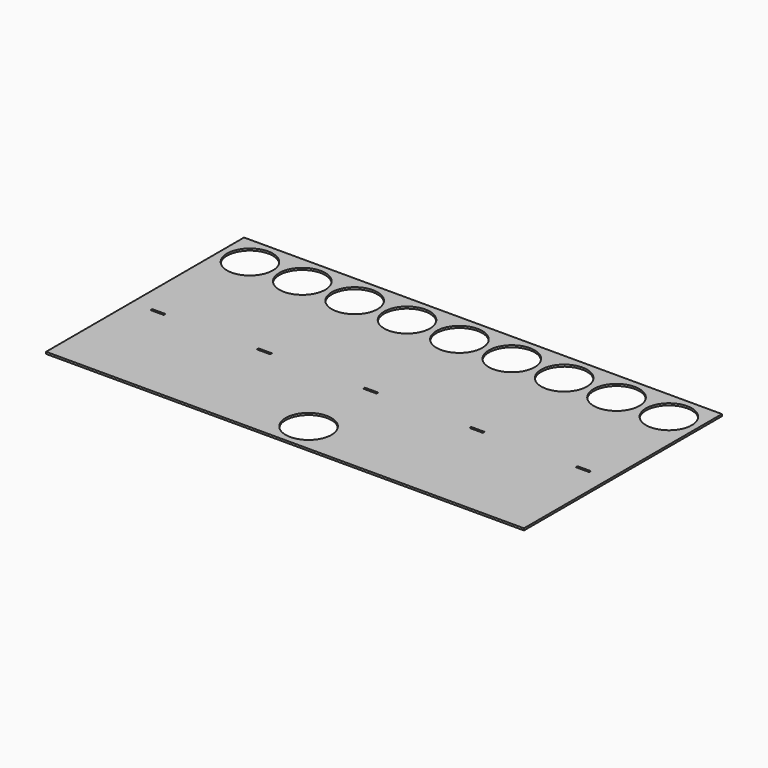
from build123d import *

# Parameters (mm, degrees)
F0_W     = 730
F0_H     = 378
F0_W_2   = 20.3
F0_H_2   = 3.3
F0_R     = 35
F1_DEPTH = 3


with BuildPart() as f1:
    # F0 (on Top) → F1 (new body)
    with BuildSketch(Plane.XY):
        with Locations((0, -89.869341)):
            Rectangle(F0_W, F0_H)
        with Locations((-325, -115.369341)):
            Rectangle(F0_W_2, F0_H_2, mode=Mode.SUBTRACT)
        with Locations((-162.5, -115.369341)):
            Rectangle(F0_W_2, F0_H_2, mode=Mode.SUBTRACT)
        with Locations((0, -233.869341)):
            Circle(F0_R, mode=Mode.SUBTRACT)
        with Locations((0, -115.369341)):
            Rectangle(F0_W_2, F0_H_2, mode=Mode.SUBTRACT)
        with Locations((162.5, -115.369341)):
            Rectangle(F0_W_2, F0_H_2, mode=Mode.SUBTRACT)
        with Locations((325, -115.369341)):
            Rectangle(F0_W_2, F0_H_2, mode=Mode.SUBTRACT)
        with Locations((-320, 54.130659)):
            Circle(F0_R, mode=Mode.SUBTRACT)
        with Locations((-240, 54.130659)):
            Circle(F0_R, mode=Mode.SUBTRACT)
        with Locations((-160, 54.130659)):
            Circle(F0_R, mode=Mode.SUBTRACT)
        with Locations((-80, 54.130659)):
            Circle(F0_R, mode=Mode.SUBTRACT)
        with Locations((0, 54.130659)):
            Circle(F0_R, mode=Mode.SUBTRACT)
        with Locations((80, 54.130659)):
            Circle(F0_R, mode=Mode.SUBTRACT)
        with Locations((160, 54.130659)):
            Circle(F0_R, mode=Mode.SUBTRACT)
        with Locations((240, 54.130659)):
            Circle(F0_R, mode=Mode.SUBTRACT)
        with Locations((320, 54.130659)):
            Circle(F0_R, mode=Mode.SUBTRACT)
    extrude(amount=F1_DEPTH)


solid = f1.part
